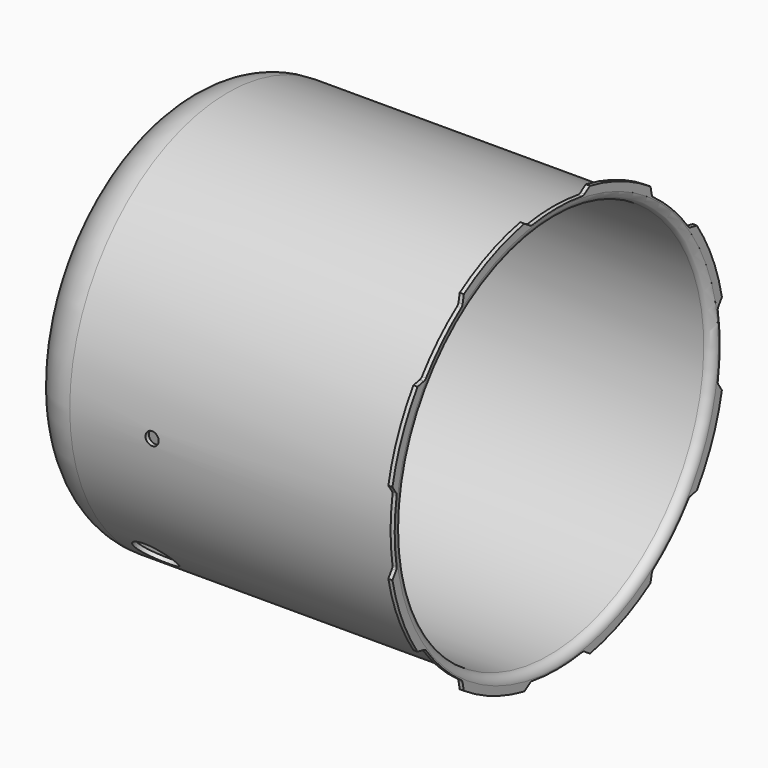
from build123d import *

# Parameters (mm, degrees)
SKETCH052_R          = 5.08
POCKET_DEPTH         = 161.926
POCKET013_DEPTH      = 1086.426433
POCKET013_DEPTH_BACK = 1378.526433
POLARPATTERN_COUNT   = 8
SKETCH080_R          = 15.875
POCKET014_DEPTH      = 224.597427


with BuildPart() as part:
    # Sketch003 → Revolution (revolve)
    with BuildSketch(Plane.XZ):
        with BuildLine():
            ThreePointArc((38.1, 152.4), (11.159232, 141.240768), (0, 114.3))
            Line((0, 114.3), (2.683626, 108.544946))
            Line((2.683626, 108.544946), (2.683626, 62.824946))
            Line((2.683626, 62.824946), (5.367252, 57.069891))
            Line((5.367252, 57.069891), (5.367252, 0))
            Line((5.367252, 0), (8.574284, 0))
            Line((8.574284, 58.565355), (8.574284, 0))
            Line((5.890658, 64.320409), (8.574284, 58.565355))
            Line((5.890658, 110.040409), (5.890658, 64.320409))
            Line((3.207032, 115.795464), (5.890658, 110.040409))
            ThreePointArc((38.1, 149.225), (13.938806, 139.518889), (3.207032, 115.795464))
            Line((285.75, 149.225), (38.1, 149.225))
            ThreePointArc((285.75, 149.225), (290.240128, 151.084872), (292.1, 155.575))
            Line((292.1, 161.925), (292.1, 155.575))
            Line((288.925, 161.925), (292.1, 161.925))
            Line((288.925, 155.575), (288.925, 161.925))
            ThreePointArc((285.75, 152.4), (287.995064, 153.329936), (288.925, 155.575))
            Line((38.1, 152.4), (285.75, 152.4))
        make_face()
    revolve(axis=Axis((0, 0, 0), (1, 0, 0)))

    # Sketch052 → Pocket (cut, through all)
    with BuildSketch(Plane.XZ):
        with Locations((101.6, 0)):
            Circle(SKETCH052_R)
    extrude(amount=POCKET_DEPTH, mode=Mode.SUBTRACT)

    # Sketch004 → Pocket013 (cut, two sides)
    with BuildSketch(Plane.YZ) as pocket013_sk:
        with BuildLine():
            Line((158.813657, 31.59), (155.285786, 26.310168))
            ThreePointArc((155.285786, 26.310168), (154.825454, 25.231136), (154.788371, 24.058601))
            ThreePointArc((154.788371, -24.058601), (156.646916, 0), (154.788371, 24.058601))
            ThreePointArc((154.788371, -24.058601), (154.825454, -25.231136), (155.285786, -26.310168))
            Line((158.813657, -31.59), (155.285786, -26.310168))
            ThreePointArc((158.813657, -31.59), (161.925, 0), (158.813657, 31.59))
        make_face()
    pocket013 = extrude(amount=-POCKET013_DEPTH, mode=Mode.SUBTRACT) + extrude(pocket013_sk.sketch, amount=POCKET013_DEPTH_BACK, mode=Mode.SUBTRACT)

    # PolarPattern: Pocket013 ×8 about axis
    polarpattern_axis = Axis((0, 0, 0), (1, 0, 0))
    for i in range(1, POLARPATTERN_COUNT):
        add(pocket013.rotate(polarpattern_axis, i * 360 / POLARPATTERN_COUNT), mode=Mode.SUBTRACT)

    # Sketch080 (on DatumPlane) → Pocket014 (cut, through all)
    with BuildSketch(Plane(origin=(0, 0, 0), x_dir=(1, 0, 0), z_dir=(0, -0.707107, -0.707107))):
        with Locations((68.58, 0)):
            Circle(SKETCH080_R)
    extrude(amount=POCKET014_DEPTH, mode=Mode.SUBTRACT)


solid = part.part
